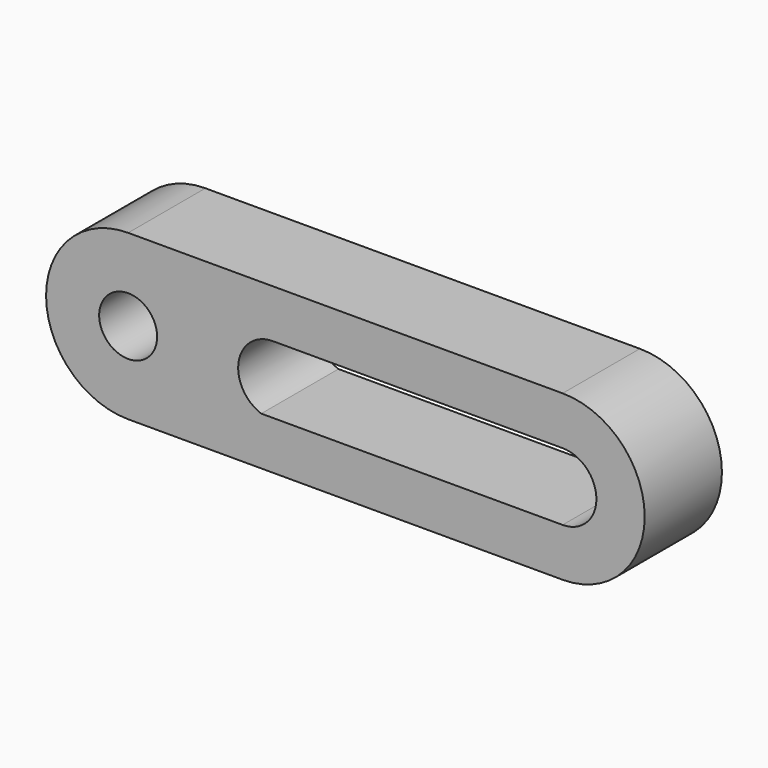
from build123d import *

# Parameters (mm, degrees)
F0_R     = 6
F1_DEPTH = 20


with BuildPart() as f1:
    # F0 (on Front) → F1 (new body)
    with BuildSketch(Plane.XZ):
        with BuildLine():
            Line((90, 34), (0, 34))
            ThreePointArc((0, 34), (-17, 17), (0, 0))
            Line((0, 0), (90, 0))
            ThreePointArc((90, 0), (107, 17), (90, 34))
        make_face()
        with Locations((0, 17)):
            Circle(F0_R, mode=Mode.SUBTRACT)
        with BuildLine():
            ThreePointArc((27.565688, 10), (22.894969, 18.02378), (30, 24))
            Line((30, 24), (90, 24))
            ThreePointArc((90, 24), (97, 17), (90, 10))
            Line((90, 10), (27.565688, 10))
        make_face(mode=Mode.SUBTRACT)
    extrude(amount=F1_DEPTH)


solid = f1.part
